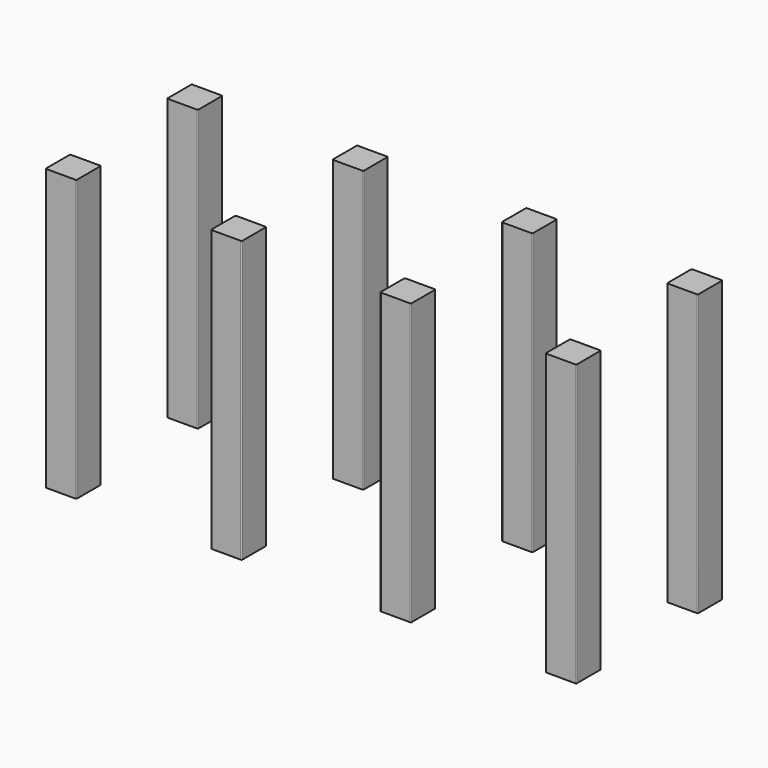
from build123d import *

# Parameters (mm, degrees)
F0_W     = 101.6
F0_H     = 101.6
F1_DEPTH = 927.1
F2_R     = 3.175


with BuildPart() as f1:
    # F0 (on Top) → F1 (new body)
    with BuildSketch(Plane.XY):
        with Locations((825.5, 266.7)):
            Rectangle(F0_W, F0_H)
        with Locations((279.4, 266.7)):
            Rectangle(F0_W, F0_H)
        with Locations((-279.4, 266.7)):
            Rectangle(F0_W, F0_H)
        with Locations((-825.5, 266.7)):
            Rectangle(F0_W, F0_H)
        with Locations((-825.5, -234.95)):
            Rectangle(F0_W, F0_H)
        with Locations((825.5, -234.95)):
            Rectangle(F0_W, F0_H)
        with Locations((279.4, -234.95)):
            Rectangle(F0_W, F0_H)
        with Locations((-279.4, -234.95)):
            Rectangle(F0_W, F0_H)
    extrude(amount=F1_DEPTH)

    # F2
    f2_edges = [f1.edges().sort_by_distance(p)[0] for p in [
        (-876.3, -285.75, 463.55),
        (-774.7, -285.75, 463.55),
        (-774.7, -184.15, 463.55),
        (-876.3, 215.9, 463.55),
        (-774.7, 215.9, 463.55),
        (-774.7, 317.5, 463.55),
        (-330.2, -285.75, 463.55),
        (-228.6, -285.75, 463.55),
        (-228.6, -184.15, 463.55),
        (-330.2, 215.9, 463.55),
        (-228.6, 215.9, 463.55),
        (-228.6, 317.5, 463.55),
        (228.6, -285.75, 463.55),
        (330.2, -184.15, 463.55),
        (228.6, 215.9, 463.55),
        (330.2, 215.9, 463.55),
        (330.2, 317.5, 463.55),
        (876.3, -285.75, 463.55),
        (774.7, -285.75, 463.55),
        (876.3, -184.15, 463.55),
        (774.7, 215.9, 463.55),
        (876.3, 317.5, 463.55),
        (876.3, 215.9, 463.55),
        (774.7, -184.15, 463.55),
        (330.2, -285.75, 463.55),
        (774.7, 317.5, 463.55),
        (228.6, -184.15, 463.55),
        (228.6, 317.5, 463.55),
        (-330.2, -184.15, 463.55),
        (-330.2, 317.5, 463.55),
        (-876.3, -184.15, 463.55),
        (-876.3, 317.5, 463.55),
    ]]
    fillet(f2_edges, radius=F2_R)


solid = f1.part
